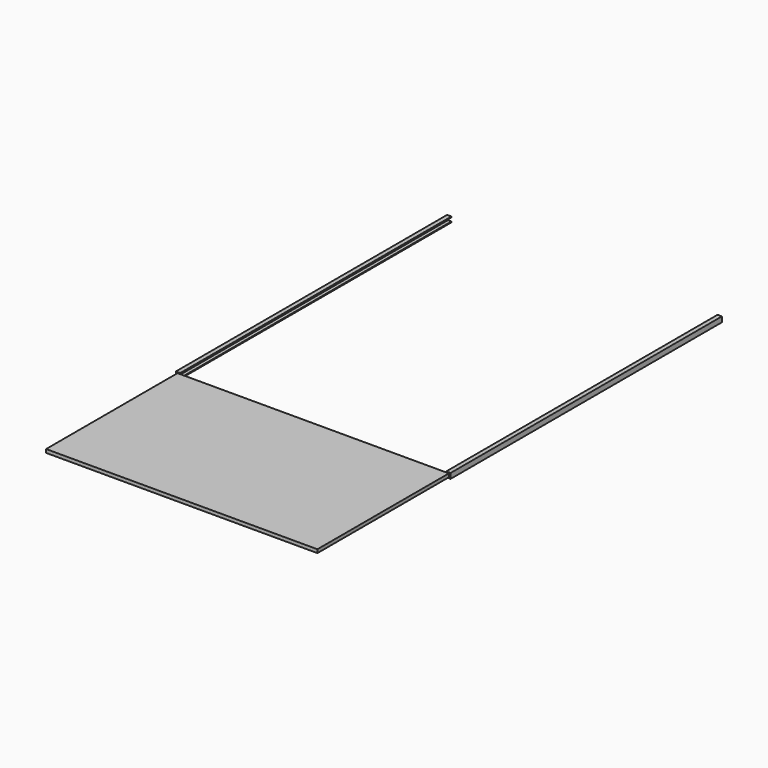
from build123d import *

# Parameters (mm, degrees)
F1_DEPTH = 990.6
F3_DEPTH = 479.9076


with BuildPart() as f1:
    # F0 (on Front) → F1 (new body)
    with BuildSketch(Plane.XZ):
        Polygon((0, -2.54), (0, 0), (-12.7, 0), (-12.7, -15.24), (0, -15.24), (0, -12.7), (-10.16, -12.7), (-10.16, -2.54), align=None)
    extrude(amount=F1_DEPTH)


with BuildPart() as f3:
    # F2 (on face) → F3 (new body)
    with BuildSketch(Plane.XZ.offset(990.6)):
        Polygon((388.62, -2.6924), (-7.62, -2.6924), (-7.62, -12.7), (0, -12.7), (388.62, -12.7), align=None)
    extrude(amount=F3_DEPTH)

    # F5: F3, F1 across plane


with BuildPart() as f3_1:
    add(f3.part)
    add(f3.part.mirror(Plane(origin=(388.62, -1230.5538, -7.6962), x_dir=(0, 1, 0), z_dir=(1, 0, 0))))
    add(f1.part.mirror(Plane(origin=(388.62, -1230.5538, -7.6962), x_dir=(0, 1, 0), z_dir=(1, 0, 0))))


solid = Compound([f1.part, f3_1.part])
